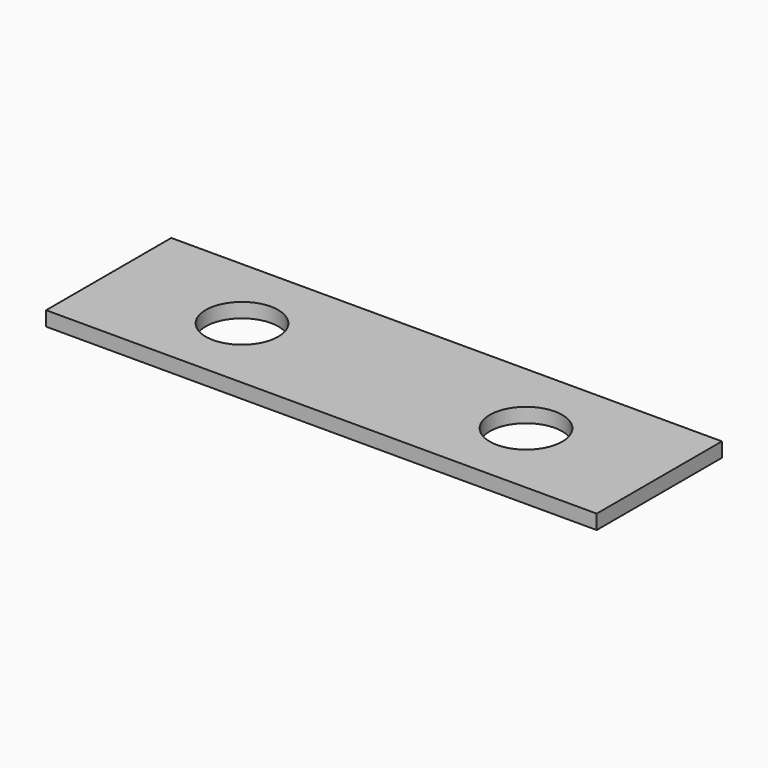
from build123d import *

# Parameters (mm, degrees)
SKETCH_W     = 38
SKETCH_H     = 10.8
PAD_DEPTH    = 1
SKETCH001_R  = 2.5
POCKET_DEPTH = 5


with BuildPart() as part:
    # Sketch (on XY_Plane of Origin) → Pad (new body)
    with BuildSketch(Plane.XY):
        Rectangle(SKETCH_W, SKETCH_H)
    extrude(amount=PAD_DEPTH)

    # Sketch001 (on Face6 of Pad) → Pocket (cut)
    with BuildSketch(Plane.XY.offset(1)):
        with Locations((-9.8, 0)):
            Circle(SKETCH001_R)
        with Locations((9.8, 0)):
            Circle(SKETCH001_R)
    extrude(amount=-POCKET_DEPTH, mode=Mode.SUBTRACT)


solid = part.part
